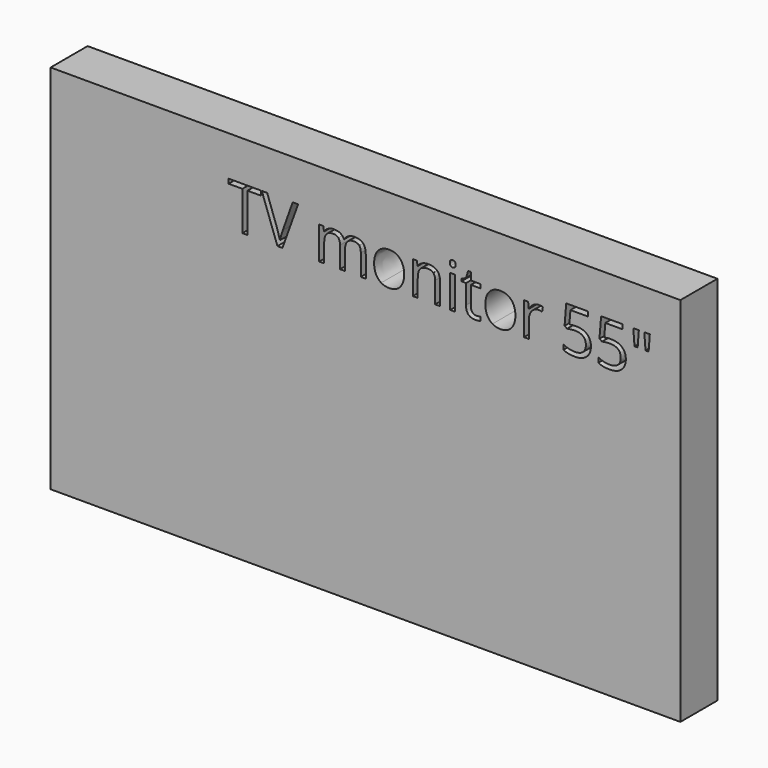
from build123d import *

# Parameters (mm, degrees)
F0_W     = 1238
F0_H     = 730
F0_W_2   = 9.724877668
F0_H_2   = 64.17669752
F1_DEPTH = 91


with BuildPart() as f1:
    # F0 (on Front) → F1 (new body)
    with BuildSketch(Plane.XZ):
        Rectangle(F0_W, F0_H)
        Polygon((-232.0483349613, 277.590397671), (-232.0483349613, 200.8219510317), (-241.9980652921, 200.8219510317), (-241.9980652921, 277.590397671), (-269.1115488867, 277.590397671), (-269.1115488867, 286.4346024095), (-204.9348513667, 286.4346024095), (-204.9348513667, 277.590397671), align=None, mode=Mode.SUBTRACT)
        with BuildLine():
            Line((-162.7000261958, 231.3831754566), (-143.1378445284, 286.4346024095))
            Line((-143.1378445284, 286.4346024095), (-132.4386053214, 286.4346024095))
            Line((-132.4386053214, 286.4346024095), (-163.2808955748, 200.8219510317))
            Line((-163.2808955748, 200.8219510317), (-173.1181995743, 200.8219510317))
            Line((-173.1181995743, 200.8219510317), (-203.8105880525, 286.4346024095))
            Line((-203.8105880525, 286.4346024095), (-193.2612506207, 286.4346024095))
            Line((-193.2612506207, 286.4346024095), (-173.5866426219, 231.0458964623))
            add(Edge.make_bspline(
                [(-173.5866426219, 231.0458964623), (-170.1951149573, 221.4896582914), (-168.2089164355, 212.4768140558)],
                knots=[0, 0, 0, 1, 1, 1], degree=2))
            add(Edge.make_bspline(
                [(-168.2089164355, 212.4768140558), (-166.0915538604, 221.958101339), (-162.7000261958, 231.3831754566)],
                knots=[0, 0, 0, 1, 1, 1], degree=2))
        make_face(mode=Mode.SUBTRACT)
        with BuildLine():
            Line((0.5430070289, 200.8219510317), (-9.1631329172, 200.8219510317))
            Line((-9.1631329172, 200.8219510317), (-9.1631329172, 242.569595433))
            add(Edge.make_bspline(
                [(-9.1631329172, 242.569595433), (-9.1631329172, 250.2520614135), (-12.4422342504, 254.0839255428)],
                knots=[0, 0, 0, 1, 1, 1], degree=2))
            add(Edge.make_bspline(
                [(-12.4422342504, 254.0839255428), (-15.7213355835, 257.9157896721), (-22.6355549659, 257.9157896721)],
                knots=[0, 0, 0, 1, 1, 1], degree=2))
            add(Edge.make_bspline(
                [(-22.6355549659, 257.9157896721), (-31.7046123673, 257.9157896721), (-36.042394988, 252.7067029829)],
                knots=[0, 0, 0, 1, 1, 1], degree=2))
            add(Edge.make_bspline(
                [(-36.042394988, 252.7067029829), (-40.3801776087, 247.4976162937), (-40.3801776087, 236.6672130334)],
                knots=[0, 0, 0, 1, 1, 1], degree=2))
            Line((-40.3801776087, 236.6672130334), (-40.3801776087, 200.8219510317))
            Line((-40.3801776087, 200.8219510317), (-50.1050552767, 200.8219510317))
            Line((-50.1050552767, 200.8219510317), (-50.1050552767, 242.569595433))
            add(Edge.make_bspline(
                [(-50.1050552767, 242.569595433), (-50.1050552767, 250.2520614135), (-53.3841566099, 254.0839255428)],
                knots=[0, 0, 0, 1, 1, 1], degree=2))
            add(Edge.make_bspline(
                [(-53.3841566099, 254.0839255428), (-56.663257943, 257.9157896721), (-63.6336904912, 257.9157896721)],
                knots=[0, 0, 0, 1, 1, 1], degree=2))
            add(Edge.make_bspline(
                [(-63.6336904912, 257.9157896721), (-72.7589610582, 257.9157896721), (-77.0030550694, 252.4443748763)],
                knots=[0, 0, 0, 1, 1, 1], degree=2))
            add(Edge.make_bspline(
                [(-77.0030550694, 252.4443748763), (-81.2471490806, 246.9729600804), (-81.2471490806, 234.4936372926)],
                knots=[0, 0, 0, 1, 1, 1], degree=2))
            Line((-81.2471490806, 234.4936372926), (-81.2471490806, 200.8219510317))
            Line((-81.2471490806, 200.8219510317), (-90.9720267486, 200.8219510317))
            Line((-90.9720267486, 200.8219510317), (-90.9720267486, 264.9986485517))
            Line((-90.9720267486, 264.9986485517), (-83.0647081053, 264.9986485517))
            Line((-83.0647081053, 264.9986485517), (-81.4907394654, 256.2106569789))
            Line((-81.4907394654, 256.2106569789), (-81.0222964178, 256.2106569789))
            add(Edge.make_bspline(
                [(-81.0222964178, 256.2106569789), (-78.2678512979, 260.8950874548), (-73.2555106887, 263.5371062432)],
                knots=[0, 0, 0, 1, 1, 1], degree=2))
            add(Edge.make_bspline(
                [(-73.2555106887, 263.5371062432), (-68.2431700795, 266.1791250317), (-62.0409841294, 266.1791250317)],
                knots=[0, 0, 0, 1, 1, 1], degree=2))
            add(Edge.make_bspline(
                [(-62.0409841294, 266.1791250317), (-46.9945934407, 266.1791250317), (-42.3663761305, 255.2737708837)],
                knots=[0, 0, 0, 1, 1, 1], degree=2))
            Line((-42.3663761305, 255.2737708837), (-41.8979330829, 255.2737708837))
            add(Edge.make_bspline(
                [(-41.8979330829, 255.2737708837), (-39.0310616317, 260.3142180758), (-33.5877534186, 263.2466715537)],
                knots=[0, 0, 0, 1, 1, 1], degree=2))
            add(Edge.make_bspline(
                [(-33.5877534186, 263.2466715537), (-28.1444452056, 266.1791250317), (-21.1740126575, 266.1791250317)],
                knots=[0, 0, 0, 1, 1, 1], degree=2))
            add(Edge.make_bspline(
                [(-21.1740126575, 266.1791250317), (-10.2873962314, 266.1791250317), (-4.8721946013, 260.5859150434)],
                knots=[0, 0, 0, 1, 1, 1], degree=2))
            add(Edge.make_bspline(
                [(-4.8721946013, 260.5859150434), (0.5430070289, 254.9927050552), (0.5430070289, 242.6820217645)],
                knots=[0, 0, 0, 1, 1, 1], degree=2))
            Line((0.5430070289, 242.6820217645), (0.5430070289, 200.8219510317))
        make_face(mode=Mode.SUBTRACT)
        with BuildLine():
            add(Edge.make_bspline(
                [(68.0269124649, 257.2131251008), (75.9623376911, 248.2471251699), (75.9623376911, 232.9758818184)],
                knots=[0, 0, 0, 1, 1, 1], degree=2))
            add(Edge.make_bspline(
                [(75.9623376911, 232.9758818184), (75.9623376911, 217.2736708631), (68.0643879087, 208.4575727074)],
                knots=[0, 0, 0, 1, 1, 1], degree=2))
            add(Edge.make_bspline(
                [(68.0643879087, 208.4575727074), (60.1664381263, 199.6414745518), (46.22557303, 199.6414745518)],
                knots=[0, 0, 0, 1, 1, 1], degree=2))
            add(Edge.make_bspline(
                [(46.22557303, 199.6414745518), (37.6062209543, 199.6414745518), (30.9355919566, 203.6888224829)],
                knots=[0, 0, 0, 1, 1, 1], degree=2))
            add(Edge.make_bspline(
                [(30.9355919566, 203.6888224829), (24.2649629589, 207.7361704141), (20.6298449096, 215.2874723413)],
                knots=[0, 0, 0, 1, 1, 1], degree=2))
            add(Edge.make_bspline(
                [(20.6298449096, 215.2874723413), (16.9947268603, 222.8387742685), (16.9947268603, 232.9758818184)],
                knots=[0, 0, 0, 1, 1, 1], degree=2))
            add(Edge.make_bspline(
                [(16.9947268603, 232.9758818184), (16.9947268603, 248.6593550517), (24.8458323379, 257.4192400417)],
                knots=[0, 0, 0, 1, 1, 1], degree=2))
            add(Edge.make_bspline(
                [(24.8458323379, 257.4192400417), (32.6969378156, 266.1791250317), (46.6378029119, 266.1791250317)],
                knots=[0, 0, 0, 1, 1, 1], degree=2))
            add(Edge.make_bspline(
                [(46.6378029119, 266.1791250317), (60.0914872387, 266.1791250317), (68.0269124649, 257.2131251008)],
                knots=[0, 0, 0, 1, 1, 1], degree=2))
        make_face(mode=Mode.SUBTRACT)
        with BuildLine():
            Line((146.6597624337, 200.8219510317), (136.9348847657, 200.8219510317))
            Line((136.9348847657, 200.8219510317), (136.9348847657, 242.3447427702))
            add(Edge.make_bspline(
                [(136.9348847657, 242.3447427702), (136.9348847657, 250.1771105259), (133.365348743, 254.046450099)],
                knots=[0, 0, 0, 1, 1, 1], degree=2))
            add(Edge.make_bspline(
                [(133.365348743, 254.046450099), (129.7958127204, 257.9157896721), (122.1695599056, 257.9157896721)],
                knots=[0, 0, 0, 1, 1, 1], degree=2))
            add(Edge.make_bspline(
                [(122.1695599056, 257.9157896721), (112.1074032433, 257.9157896721), (107.4229727674, 252.4724814591)],
                knots=[0, 0, 0, 1, 1, 1], degree=2))
            add(Edge.make_bspline(
                [(107.4229727674, 252.4724814591), (102.7385422915, 247.0291732461), (102.7385422915, 234.4936372926)],
                knots=[0, 0, 0, 1, 1, 1], degree=2))
            Line((102.7385422915, 234.4936372926), (102.7385422915, 200.8219510317))
            Line((102.7385422915, 200.8219510317), (93.0136646235, 200.8219510317))
            Line((93.0136646235, 200.8219510317), (93.0136646235, 264.9986485517))
            Line((93.0136646235, 264.9986485517), (100.9209832668, 264.9986485517))
            Line((100.9209832668, 264.9986485517), (102.4949519067, 256.2106569789))
            Line((102.4949519067, 256.2106569789), (102.9633949543, 256.2106569789))
            add(Edge.make_bspline(
                [(102.9633949543, 256.2106569789), (105.9614304589, 260.9513006205), (111.3485255062, 263.5652128261)],
                knots=[0, 0, 0, 1, 1, 1], degree=2))
            add(Edge.make_bspline(
                [(111.3485255062, 263.5652128261), (116.7356205535, 266.1791250317), (123.3500363855, 266.1791250317)],
                knots=[0, 0, 0, 1, 1, 1], degree=2))
            add(Edge.make_bspline(
                [(123.3500363855, 266.1791250317), (134.9486862439, 266.1791250317), (140.8042243388, 260.5859150434)],
                knots=[0, 0, 0, 1, 1, 1], degree=2))
            add(Edge.make_bspline(
                [(140.8042243388, 260.5859150434), (146.6597624337, 254.9927050552), (146.6597624337, 242.6820217645)],
                knots=[0, 0, 0, 1, 1, 1], degree=2))
            Line((146.6597624337, 242.6820217645), (146.6597624337, 200.8219510317))
        make_face(mode=Mode.SUBTRACT)
        with Locations((171.4778750951, 232.9102997917)):
            Rectangle(F0_W_2, F0_H_2, mode=Mode.SUBTRACT)
        with BuildLine():
            add(Edge.make_bspline(
                [(210.1244265214, 210.7810502235), (212.8788716412, 207.6799572484), (217.6757284485, 207.6799572484)],
                knots=[0, 0, 0, 1, 1, 1], degree=2))
            add(Edge.make_bspline(
                [(217.6757284485, 207.6799572484), (220.2615340712, 207.6799572484), (222.6599624749, 208.0547116865)],
                knots=[0, 0, 0, 1, 1, 1], degree=2))
            add(Edge.make_bspline(
                [(222.6599624749, 208.0547116865), (225.0583908786, 208.4294661246), (226.4637200214, 208.8416960065)],
                knots=[0, 0, 0, 1, 1, 1], degree=2))
            Line((226.4637200214, 208.8416960065), (226.4637200214, 201.4028204107))
            add(Edge.make_bspline(
                [(226.4637200214, 201.4028204107), (224.8897513814, 200.6533115346), (221.8167649892, 200.1473930432)],
                knots=[0, 0, 0, 1, 1, 1], degree=2))
            add(Edge.make_bspline(
                [(221.8167649892, 200.1473930432), (218.743778597, 199.6414745518), (216.2703993058, 199.6414745518)],
                knots=[0, 0, 0, 1, 1, 1], degree=2))
            add(Edge.make_bspline(
                [(216.2703993058, 199.6414745518), (197.6638414554, 199.6414745518), (197.6638414554, 219.2598693849)],
                knots=[0, 0, 0, 1, 1, 1], degree=2))
            Line((197.6638414554, 219.2598693849), (197.6638414554, 257.4473466246))
            Line((197.6638414554, 257.4473466246), (188.4636200007, 257.4473466246))
            Line((188.4636200007, 257.4473466246), (188.4636200007, 262.1317771005))
            Line((188.4636200007, 262.1317771005), (197.6638414554, 266.1791250317))
            Line((197.6638414554, 266.1791250317), (201.7486648304, 279.8763997432))
            Line((201.7486648304, 279.8763997432), (207.3699814015, 279.8763997432))
            Line((207.3699814015, 279.8763997432), (207.3699814015, 264.9986485517))
            Line((207.3699814015, 264.9986485517), (225.9952769738, 264.9986485517))
            Line((225.9952769738, 264.9986485517), (225.9952769738, 257.4473466246))
            Line((225.9952769738, 257.4473466246), (207.3699814015, 257.4473466246))
            Line((207.3699814015, 257.4473466246), (207.3699814015, 219.6720992668))
            add(Edge.make_bspline(
                [(207.3699814015, 219.6720992668), (207.3699814015, 213.8821431985), (210.1244265214, 210.7810502235)],
                knots=[0, 0, 0, 1, 1, 1], degree=2))
        make_face(mode=Mode.SUBTRACT)
        with BuildLine():
            add(Edge.make_bspline(
                [(286.7336025245, 257.2131251008), (294.6690277507, 248.2471251699), (294.6690277507, 232.9758818184)],
                knots=[0, 0, 0, 1, 1, 1], degree=2))
            add(Edge.make_bspline(
                [(294.6690277507, 232.9758818184), (294.6690277507, 217.2736708631), (286.7710779683, 208.4575727074)],
                knots=[0, 0, 0, 1, 1, 1], degree=2))
            add(Edge.make_bspline(
                [(286.7710779683, 208.4575727074), (278.8731281859, 199.6414745518), (264.9322630896, 199.6414745518)],
                knots=[0, 0, 0, 1, 1, 1], degree=2))
            add(Edge.make_bspline(
                [(264.9322630896, 199.6414745518), (256.3129110139, 199.6414745518), (249.6422820162, 203.6888224829)],
                knots=[0, 0, 0, 1, 1, 1], degree=2))
            add(Edge.make_bspline(
                [(249.6422820162, 203.6888224829), (242.9716530185, 207.7361704141), (239.3365349692, 215.2874723413)],
                knots=[0, 0, 0, 1, 1, 1], degree=2))
            add(Edge.make_bspline(
                [(239.3365349692, 215.2874723413), (235.7014169199, 222.8387742685), (235.7014169199, 232.9758818184)],
                knots=[0, 0, 0, 1, 1, 1], degree=2))
            add(Edge.make_bspline(
                [(235.7014169199, 232.9758818184), (235.7014169199, 248.6593550517), (243.5525223975, 257.4192400417)],
                knots=[0, 0, 0, 1, 1, 1], degree=2))
            add(Edge.make_bspline(
                [(243.5525223975, 257.4192400417), (251.4036278751, 266.1791250317), (265.3444929715, 266.1791250317)],
                knots=[0, 0, 0, 1, 1, 1], degree=2))
            add(Edge.make_bspline(
                [(265.3444929715, 266.1791250317), (278.7981772983, 266.1791250317), (286.7336025245, 257.2131251008)],
                knots=[0, 0, 0, 1, 1, 1], degree=2))
        make_face(mode=Mode.SUBTRACT)
        with BuildLine():
            add(Edge.make_bspline(
                [(167.4305271639, 277.4967090615), (165.7909764973, 279.1081531452), (165.7909764973, 282.3872544783)],
                knots=[0, 0, 0, 1, 1, 1], degree=2))
            add(Edge.make_bspline(
                [(165.7909764973, 282.3872544783), (165.7909764973, 285.7225689772), (167.4305271639, 287.2777998952)],
                knots=[0, 0, 0, 1, 1, 1], degree=2))
            add(Edge.make_bspline(
                [(167.4305271639, 287.2777998952), (169.0700778304, 288.8330308132), (171.5434571217, 288.8330308132)],
                knots=[0, 0, 0, 1, 1, 1], degree=2))
            add(Edge.make_bspline(
                [(171.5434571217, 288.8330308132), (173.8856723597, 288.8330308132), (175.581436192, 287.2496933123)],
                knots=[0, 0, 0, 1, 1, 1], degree=2))
            add(Edge.make_bspline(
                [(175.581436192, 287.2496933123), (177.2772000242, 285.6663558115), (177.2772000242, 282.3872544783)],
                knots=[0, 0, 0, 1, 1, 1], degree=2))
            add(Edge.make_bspline(
                [(177.2772000242, 282.3872544783), (177.2772000242, 279.1081531452), (175.581436192, 277.4967090615)],
                knots=[0, 0, 0, 1, 1, 1], degree=2))
            add(Edge.make_bspline(
                [(175.581436192, 277.4967090615), (173.8856723597, 275.8852649778), (171.5434571217, 275.8852649778)],
                knots=[0, 0, 0, 1, 1, 1], degree=2))
            add(Edge.make_bspline(
                [(171.5434571217, 275.8852649778), (169.0700778304, 275.8852649778), (167.4305271639, 277.4967090615)],
                knots=[0, 0, 0, 1, 1, 1], degree=2))
        make_face(mode=Mode.SUBTRACT)
        with BuildLine():
            add(Edge.make_bspline(
                [(329.9334203734, 262.7782285061), (334.9738675655, 266.1791250317), (341.0074140185, 266.1791250317)],
                knots=[0, 0, 0, 1, 1, 1], degree=2))
            add(Edge.make_bspline(
                [(341.0074140185, 266.1791250317), (345.2796146125, 266.1791250317), (348.671142277, 265.4670915993)],
                knots=[0, 0, 0, 1, 1, 1], degree=2))
            Line((348.671142277, 265.4670915993), (347.3220263, 256.4542473637))
            add(Edge.make_bspline(
                [(347.3220263, 256.4542473637), (343.3496292564, 257.3349202931), (340.2953805861, 257.3349202931)],
                knots=[0, 0, 0, 1, 1, 1], degree=2))
            add(Edge.make_bspline(
                [(340.2953805861, 257.3349202931), (332.5004882742, 257.3349202931), (326.9728603126, 251.0109391506)],
                knots=[0, 0, 0, 1, 1, 1], degree=2))
            add(Edge.make_bspline(
                [(326.9728603126, 251.0109391506), (321.445232351, 244.6869580082), (321.445232351, 235.2618838906)],
                knots=[0, 0, 0, 1, 1, 1], degree=2))
            Line((321.445232351, 235.2618838906), (321.445232351, 200.8219510317))
            Line((321.445232351, 200.8219510317), (311.720354683, 200.8219510317))
            Line((311.720354683, 200.8219510317), (311.720354683, 264.9986485517))
            Line((311.720354683, 264.9986485517), (319.7400996578, 264.9986485517))
            Line((319.7400996578, 264.9986485517), (320.864362972, 253.1189328648))
            Line((320.864362972, 253.1189328648), (321.3328060196, 253.1189328648))
            add(Edge.make_bspline(
                [(321.3328060196, 253.1189328648), (324.8929731813, 259.3773319806), (329.9334203734, 262.7782285061)],
                knots=[0, 0, 0, 1, 1, 1], degree=2))
        make_face(mode=Mode.SUBTRACT)
        with BuildLine():
            add(Edge.make_bspline(
                [(400.7432714473, 251.7698168877), (407.4701136107, 253.1189328648), (414.1594803304, 253.1189328648)],
                knots=[0, 0, 0, 1, 1, 1], degree=2))
            add(Edge.make_bspline(
                [(414.1594803304, 253.1189328648), (427.6881155448, 253.1189328648), (435.4455324129, 246.4108284233)],
                knots=[0, 0, 0, 1, 1, 1], degree=2))
            add(Edge.make_bspline(
                [(435.4455324129, 246.4108284233), (443.202949281, 239.7027239818), (443.202949281, 228.0478609577)],
                knots=[0, 0, 0, 1, 1, 1], degree=2))
            add(Edge.make_bspline(
                [(443.202949281, 228.0478609577), (443.202949281, 214.762816128), (434.7428678415, 207.2021453399)],
                knots=[0, 0, 0, 1, 1, 1], degree=2))
            add(Edge.make_bspline(
                [(434.7428678415, 207.2021453399), (426.282786402, 199.6414745518), (411.4050352105, 199.6414745518)],
                knots=[0, 0, 0, 1, 1, 1], degree=2))
            add(Edge.make_bspline(
                [(411.4050352105, 199.6414745518), (396.9395139009, 199.6414745518), (389.331998808, 204.269691862)],
                knots=[0, 0, 0, 1, 1, 1], degree=2))
            Line((389.331998808, 204.269691862), (389.331998808, 213.6385528138))
            add(Edge.make_bspline(
                [(389.331998808, 213.6385528138), (393.416822183, 211.0152717473), (399.5065818017, 209.516253995)],
                knots=[0, 0, 0, 1, 1, 1], degree=2))
            add(Edge.make_bspline(
                [(399.5065818017, 209.516253995), (405.5963414204, 208.0172362427), (411.5174615419, 208.0172362427)],
                knots=[0, 0, 0, 1, 1, 1], degree=2))
            add(Edge.make_bspline(
                [(411.5174615419, 208.0172362427), (421.823208589, 208.0172362427), (427.5288449086, 212.8796750767)],
                knots=[0, 0, 0, 1, 1, 1], degree=2))
            add(Edge.make_bspline(
                [(427.5288449086, 212.8796750767), (433.2344812283, 217.7421139107), (433.2344812283, 226.9423353654)],
                knots=[0, 0, 0, 1, 1, 1], degree=2))
            add(Edge.make_bspline(
                [(433.2344812283, 226.9423353654), (433.2344812283, 244.8555975053), (411.2926088791, 244.8555975053)],
                knots=[0, 0, 0, 1, 1, 1], degree=2))
            add(Edge.make_bspline(
                [(411.2926088791, 244.8555975053), (405.7275054737, 244.8555975053), (396.4148576876, 243.1504648121)],
                knots=[0, 0, 0, 1, 1, 1], degree=2))
            Line((396.4148576876, 243.1504648121), (391.3744104955, 246.3733529795))
            Line((391.3744104955, 246.3733529795), (394.5972986629, 286.4346024095))
            Line((394.5972986629, 286.4346024095), (437.1694028281, 286.4346024095))
            Line((437.1694028281, 286.4346024095), (437.1694028281, 277.4779713396))
            Line((437.1694028281, 277.4779713396), (402.9168471882, 277.4779713396))
            Line((402.9168471882, 277.4779713396), (400.7432714473, 251.7698168877))
        make_face(mode=Mode.SUBTRACT)
        with BuildLine():
            add(Edge.make_bspline(
                [(469.3045958928, 251.7698168877), (476.0314380563, 253.1189328648), (482.7208047759, 253.1189328648)],
                knots=[0, 0, 0, 1, 1, 1], degree=2))
            add(Edge.make_bspline(
                [(482.7208047759, 253.1189328648), (496.2494399903, 253.1189328648), (504.0068568584, 246.4108284233)],
                knots=[0, 0, 0, 1, 1, 1], degree=2))
            add(Edge.make_bspline(
                [(504.0068568584, 246.4108284233), (511.7642737265, 239.7027239818), (511.7642737265, 228.0478609577)],
                knots=[0, 0, 0, 1, 1, 1], degree=2))
            add(Edge.make_bspline(
                [(511.7642737265, 228.0478609577), (511.7642737265, 214.762816128), (503.304192287, 207.2021453399)],
                knots=[0, 0, 0, 1, 1, 1], degree=2))
            add(Edge.make_bspline(
                [(503.304192287, 207.2021453399), (494.8441108475, 199.6414745518), (479.966359656, 199.6414745518)],
                knots=[0, 0, 0, 1, 1, 1], degree=2))
            add(Edge.make_bspline(
                [(479.966359656, 199.6414745518), (465.5008383464, 199.6414745518), (457.8933232535, 204.269691862)],
                knots=[0, 0, 0, 1, 1, 1], degree=2))
            Line((457.8933232535, 204.269691862), (457.8933232535, 213.6385528138))
            add(Edge.make_bspline(
                [(457.8933232535, 213.6385528138), (461.9781466285, 211.0152717473), (468.0679062472, 209.516253995)],
                knots=[0, 0, 0, 1, 1, 1], degree=2))
            add(Edge.make_bspline(
                [(468.0679062472, 209.516253995), (474.1576658659, 208.0172362427), (480.0787859874, 208.0172362427)],
                knots=[0, 0, 0, 1, 1, 1], degree=2))
            add(Edge.make_bspline(
                [(480.0787859874, 208.0172362427), (490.3845330345, 208.0172362427), (496.0901693541, 212.8796750767)],
                knots=[0, 0, 0, 1, 1, 1], degree=2))
            add(Edge.make_bspline(
                [(496.0901693541, 212.8796750767), (501.7958056738, 217.7421139107), (501.7958056738, 226.9423353654)],
                knots=[0, 0, 0, 1, 1, 1], degree=2))
            add(Edge.make_bspline(
                [(501.7958056738, 226.9423353654), (501.7958056738, 244.8555975053), (479.8539333246, 244.8555975053)],
                knots=[0, 0, 0, 1, 1, 1], degree=2))
            add(Edge.make_bspline(
                [(479.8539333246, 244.8555975053), (474.2888299192, 244.8555975053), (464.9761821331, 243.1504648121)],
                knots=[0, 0, 0, 1, 1, 1], degree=2))
            Line((464.9761821331, 243.1504648121), (459.935734941, 246.3733529795))
            Line((459.935734941, 246.3733529795), (463.1586231084, 286.4346024095))
            Line((463.1586231084, 286.4346024095), (505.7307272736, 286.4346024095))
            Line((505.7307272736, 286.4346024095), (505.7307272736, 277.4779713396))
            Line((505.7307272736, 277.4779713396), (471.4781716337, 277.4779713396))
            Line((471.4781716337, 277.4779713396), (469.3045958928, 251.7698168877))
        make_face(mode=Mode.SUBTRACT)
        Polygon((526.454647699, 286.4346024095), (537.341264125, 286.4346024095), (534.9990488871, 255.5173612685), (528.8530761027, 255.5173612685), align=None, mode=Mode.SUBTRACT)
        Polygon((548.0592410539, 286.4346024095), (558.94585748, 286.4346024095), (556.5474290763, 255.5173612685), (550.4576694576, 255.5173612685), align=None, mode=Mode.SUBTRACT)
    extrude(amount=F1_DEPTH)


solid = f1.part
